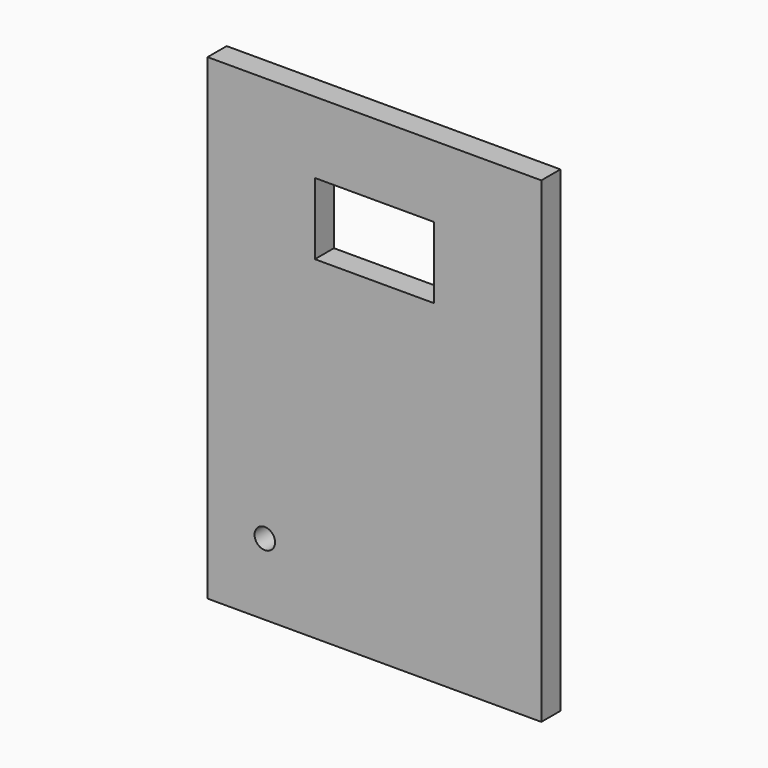
from build123d import *

# Parameters (mm, degrees)
F0_W     = 88.9
F0_H     = 127
F0_R     = 2.7305
F0_W_2   = 31.75
F0_H_2   = 19.05
F1_DEPTH = 6.35


with BuildPart() as f1:
    # F0 (on Front) → F1 (new body)
    with BuildSketch(Plane.XZ):
        Rectangle(F0_W, F0_H)
        with Locations((-29.21, -44.45)):
            Circle(F0_R, mode=Mode.SUBTRACT)
        with Locations((0, 34.925)):
            Rectangle(F0_W_2, F0_H_2, mode=Mode.SUBTRACT)
    extrude(amount=F1_DEPTH)


solid = f1.part
